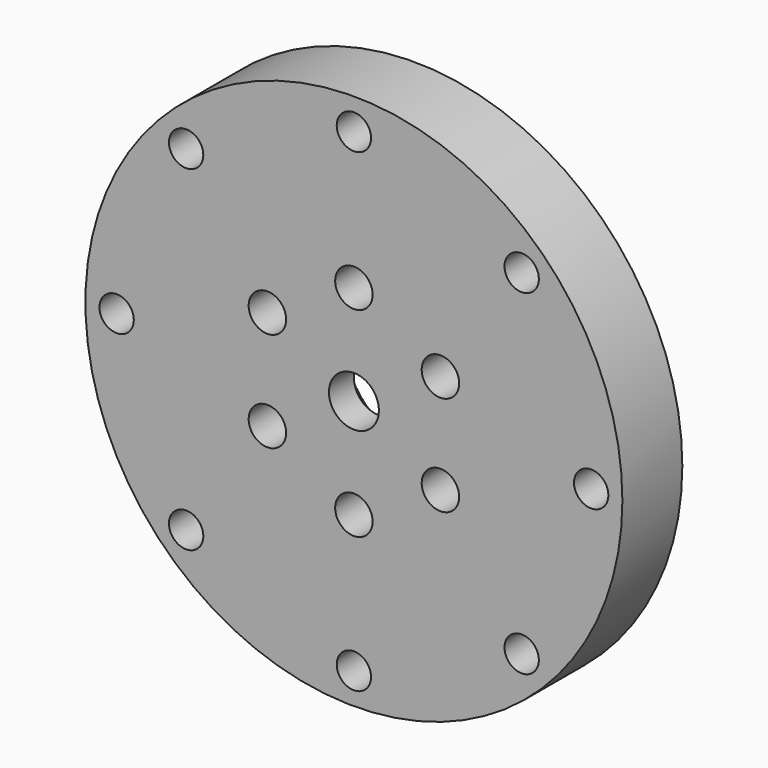
from build123d import *

# Parameters (mm, degrees)
SKETCH008_R           = 43
SKETCH008_R_2         = 4
PAD002_DEPTH          = 12
SKETCH009_R           = 11
POCKET002_DEPTH       = 7
SKETCH010_R           = 3
POCKET003_DEPTH       = 256.426858
POLARPATTERN001_COUNT = 6
SKETCH011_R           = 2.75
POCKET004_DEPTH       = 256.426858
POLARPATTERN002_COUNT = 8


with BuildPart() as part:
    # Sketch008 (on Face1 of ShapeBinder003) → Pad002 (new body)
    with BuildSketch(Plane.XZ.offset(8)):
        Circle(SKETCH008_R)
        Circle(SKETCH008_R_2, mode=Mode.SUBTRACT)
    extrude(amount=PAD002_DEPTH)

    # Sketch009 (on Face3 of Pad002) → Pocket002 (cut)
    with BuildSketch(Plane(origin=(0, -8, 0), x_dir=(1, 0, 0), z_dir=(0, 1, 0))):
        Circle(SKETCH009_R)
    extrude(amount=-POCKET002_DEPTH, mode=Mode.SUBTRACT)

    # Sketch010 (on Face2 of Pocket002) → Pocket003 (cut, through all)
    with BuildSketch(Plane(origin=(0, -8, 0), x_dir=(1, 0, 0), z_dir=(0, 1, 0))):
        with Locations((0, 16)):
            Circle(SKETCH010_R)
    pocket003 = extrude(amount=-POCKET003_DEPTH, mode=Mode.SUBTRACT)

    # PolarPattern001: Pocket003 ×6 about axis
    polarpattern001_axis = Axis((0, -8, 0), (0, 1, 0))
    for i in range(1, POLARPATTERN001_COUNT):
        add(pocket003.rotate(polarpattern001_axis, i * 360 / POLARPATTERN001_COUNT), mode=Mode.SUBTRACT)

    # Sketch011 (on Face2 of PolarPattern001) → Pocket004 (cut, through all)
    with BuildSketch(Plane(origin=(0, -8, 0), x_dir=(1, 0, 0), z_dir=(0, 1, 0))):
        with Locations((0, 38)):
            Circle(SKETCH011_R)
    pocket004 = extrude(amount=-POCKET004_DEPTH, mode=Mode.SUBTRACT)

    # PolarPattern002: Pocket004 ×8 about axis
    polarpattern002_axis = Axis((0, -8, 0), (0, 1, 0))
    for i in range(1, POLARPATTERN002_COUNT):
        add(pocket004.rotate(polarpattern002_axis, i * 360 / POLARPATTERN002_COUNT), mode=Mode.SUBTRACT)


solid = part.part
